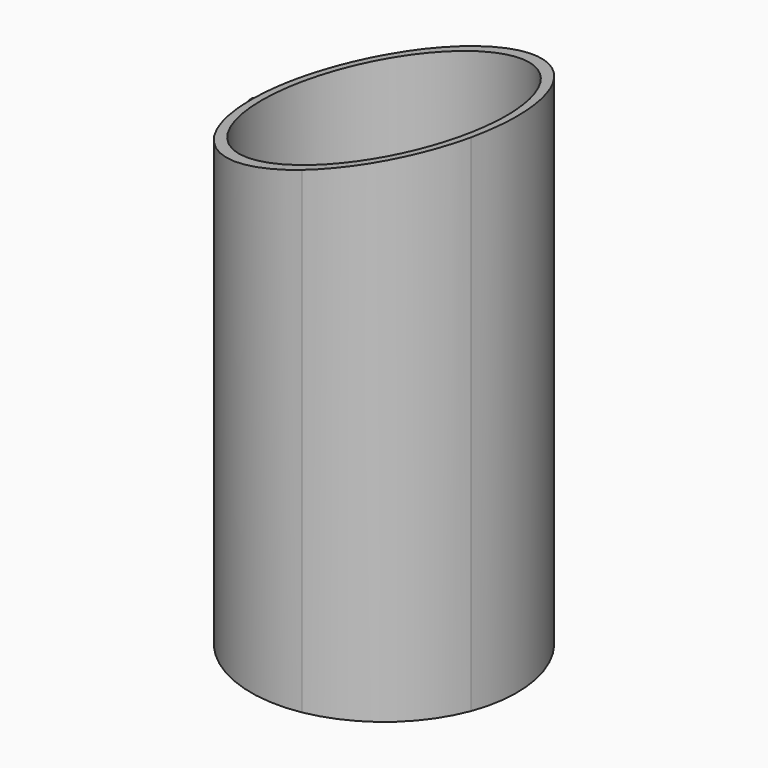
from build123d import *

# Parameters (mm, degrees)
F0_R          = 51.562
F0_R_2        = 47.5
F1_DEPTH      = 196.85
F3_DEPTH      = 61
F3_DEPTH_BACK = 74
F4_W          = 38.1
F4_H          = 101.6
F5_DEPTH      = 61
F7_DEPTH      = 222


with BuildPart() as f1:
    # F0 (on Top) → F1 (new body)
    with BuildSketch(Plane.XY):
        Circle(F0_R)
        Circle(F0_R_2, mode=Mode.SUBTRACT)
    extrude(amount=F1_DEPTH)

    # F2 (on Front) → F3 (cut, two sides)
    with BuildSketch(Plane.XZ) as f3_sk:
        Polygon((-53.913258, 197.321147), (-51.535871, 168.91), (53.578619, 197.321147), align=None)
    extrude(amount=F3_DEPTH, mode=Mode.SUBTRACT)
    extrude(f3_sk.sketch, amount=-F3_DEPTH_BACK, mode=Mode.SUBTRACT)

    # F4 (on Right) → F5 (cut)
    with BuildSketch(Plane.YZ):
        with Locations((0.965748, 50.8)):
            Rectangle(F4_W, F4_H)
    extrude(amount=-F5_DEPTH, mode=Mode.SUBTRACT)

    # F6 (on Top) → F7 (cut)
    with BuildSketch(Plane.XY):
        Polygon((-55.258796, 55.121914), (-55.258796, 0), (-55.258796, -56.109432), (54.045163, -56.109432), (54.045163, 51.900145), align=None)
        with BuildLine():
            ThreePointArc((-51.776279, 0), (-36.366122, 36.403048), (0, 51.900145))
            ThreePointArc((0, 51.900145), (36.452456, 36.489178), (51.776271, 0))
            ThreePointArc((51.776271, 0), (36.394792, -36.358057), (0, -51.652413))
            ThreePointArc((0, -51.652413), (-36.488721, -36.452209), (-51.776279, 0))
        make_face(mode=Mode.SUBTRACT)
    extrude(amount=F7_DEPTH, mode=Mode.SUBTRACT)


solid = f1.part
